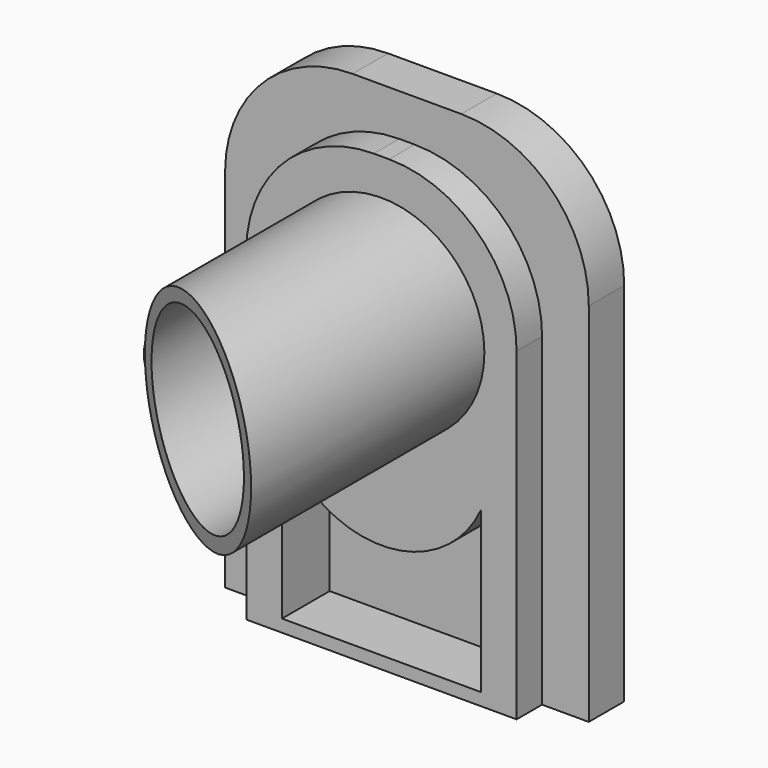
from build123d import *

# Parameters (mm, degrees)
F0_W      = 11.41
F0_H      = 15.49
F1_DEPTH  = 1.39
F2_W      = 8.48
F2_H      = 14.17
F3_DEPTH  = 1
F4_R      = 3.23
F5_DEPTH  = 9.16
F6_R      = 4
F7_R      = 2.809954
F8_DEPTH  = 11.551
F10_DEPTH = 25
F12_DEPTH = 1.87


with BuildPart() as f1:
    # F0 (on Front) → F1 (new body)
    with BuildSketch(Plane.XZ):
        with Locations((1.059828, 4.585434)):
            Rectangle(F0_W, F0_H)
    extrude(amount=F1_DEPTH)

    # F2 (on face) → F3 (join)
    with BuildSketch(Plane.XZ.offset(1.39)):
        with Locations((1.059828, 3.925434)):
            Rectangle(F2_W, F2_H)
    extrude(amount=F3_DEPTH)

    # F4 (on face) → F5 (join)
    with BuildSketch(Plane.XZ.offset(2.39)):
        with Locations((1.059828, 6.640434)):
            Circle(F4_R)
    extrude(amount=F5_DEPTH)

    # F6
    f6_edges = [f1.edges().sort_by_distance(p)[0] for p in [
        (-4.645172, -0.695, 12.330434),
        (6.764828, -0.695, 12.330434),
        (5.299828, -1.89, 11.010434),
        (-3.180172, -1.89, 11.010434),
    ]]
    fillet(f6_edges, radius=F6_R)

    # F7 (on Front) → F8 (cut, through all)
    with BuildSketch(Plane.XZ):
        with Locations((1.043937, 6.664116)):
            Circle(F7_R)
    extrude(amount=F8_DEPTH, mode=Mode.SUBTRACT)

    # F9 (on Top) → F10 (cut)
    with BuildSketch(Plane.XY):
        Polygon((5.4795, -12.259658), (-2.155284, -7.637704), (-4.158131, -12.259658), align=None)
    extrude(amount=F10_DEPTH, mode=Mode.SUBTRACT)

    # F11 (on face) → F12 (cut)
    with BuildSketch(Plane.XZ.offset(2.39)):
        with BuildLine():
            ThreePointArc((4.179828, 2.253996), (1.059828, 0.2656), (-2.060172, 2.253996))
            Line((-2.060172, 2.253996), (-2.060172, -2.769004))
            Line((-2.060172, -2.769004), (4.179828, -2.769004))
            Line((4.179828, -2.769004), (4.179828, 2.253996))
        make_face()
    extrude(amount=-F12_DEPTH, mode=Mode.SUBTRACT)


solid = f1.part
